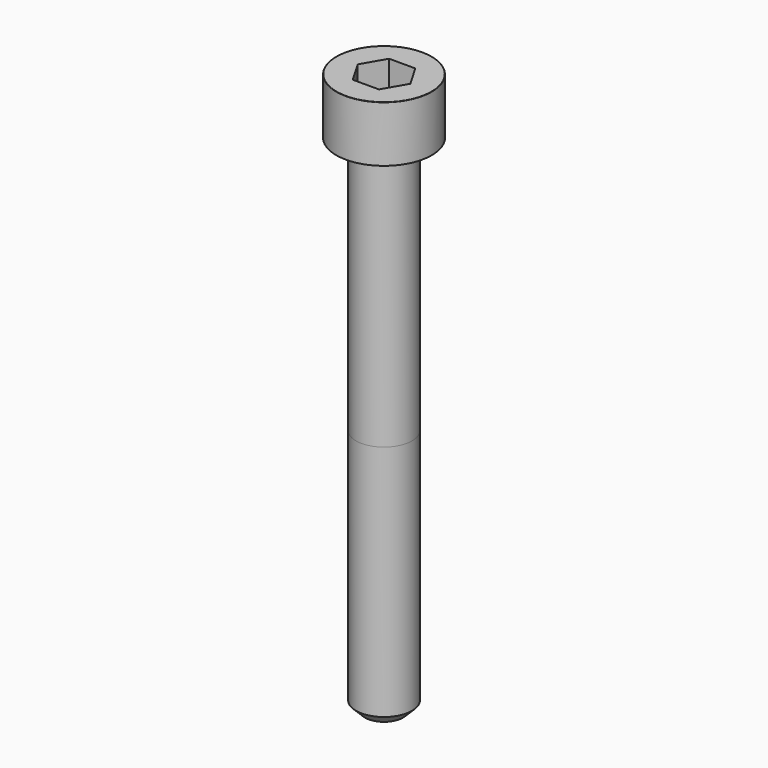
from build123d import *

# Parameters (mm, degrees)
POCKET_DEPTH = 4.06


with BuildPart() as part:
    # Sketch → Revolve (revolve)
    with BuildSketch(Plane.YZ):
        with BuildLine():
            Line((2.499, 0), (4.25, 0))
            Line((4.25, 0), (4.25, 4.97229))
            ThreePointArc((4.25, 4.97229), (4.241884, 4.991884), (4.22229, 5))
            Line((4.22229, 5), (0, 5))
            Line((0, -45), (0, 5))
            Line((1.7, -45), (0, -45))
            Line((2.5, -44.2), (1.7, -45))
            Line((2.5, -23), (2.5, -44.2))
            Line((2.499, 0), (2.5, -23))
        make_face()
    revolve(axis=Axis((0, 0, 0), (0, 0, 1)))

    # Sketch001 → Pocket (cut)
    with BuildSketch(Plane.XY.offset(5)):
        Polygon((2.344042, 0), (1.172021, 2.03), (-1.172021, 2.03), (-2.344042, 0), (-1.172021, -2.03), (1.172021, -2.03), align=None)
    extrude(amount=-POCKET_DEPTH, mode=Mode.SUBTRACT)


solid = part.part
